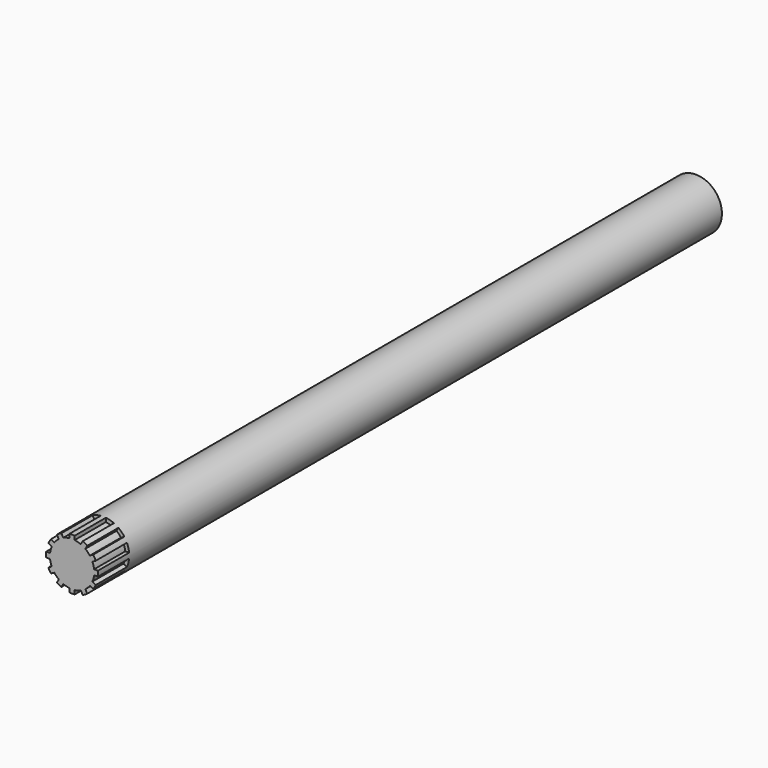
from build123d import *

# Parameters (mm, degrees)
F0_R     = 10
F1_DEPTH = 150
F3_DEPTH = 15


with BuildPart() as f1:
    # F0 (on Front) → F1 (new body, symmetric)
    with BuildSketch(Plane.XZ):
        Circle(F0_R)
    extrude(amount=F1_DEPTH, both=True)

    # F2 (on face) → F3 (cut)
    with BuildSketch(Plane.XZ.offset(150)):
        with BuildLine():
            Line((-1, 8.4674081294), (-1, 9.9498743711))
            ThreePointArc((-1, 9.9498743711), (-2.588190451, 9.6592582629), (-4.1089117817, 9.1168439698))
            Line((-4.1089117817, 9.1168439698), (-3.3676786609, 7.8329905443))
            ThreePointArc((-3.3676786609, 7.8329905443), (-2.2067568147, 8.2357285525), (-1, 8.4674081294))
        make_face()
        with BuildLine():
            Line((3.3676786609, 7.8329905443), (4.1089117817, 9.1168439698))
            ThreePointArc((4.1089117817, 9.1168439698), (2.588190451, 9.6592582629), (1, 9.9498743711))
            Line((1, 9.9498743711), (1, 8.4674081294))
            ThreePointArc((1, 8.4674081294), (2.2067568147, 8.2357285525), (3.3676786609, 7.8329905443))
        make_face()
        with BuildLine():
            Line((6.8329905443, 5.0997294685), (8.1168439698, 5.8409625893))
            ThreePointArc((8.1168439698, 5.8409625893), (7.0710678119, 7.0710678119), (5.8409625893, 8.1168439698))
            Line((5.8409625893, 8.1168439698), (5.0997294685, 6.8329905443))
            ThreePointArc((5.0997294685, 6.8329905443), (6.0289717378, 6.0289717378), (6.8329905443, 5.0997294685))
        make_face()
        with BuildLine():
            Line((8.4674081294, 1), (9.9498743711, 1))
            ThreePointArc((9.9498743711, 1), (9.6592582629, 2.588190451), (9.1168439698, 4.1089117817))
            Line((9.1168439698, 4.1089117817), (7.8329905443, 3.3676786609))
            ThreePointArc((7.8329905443, 3.3676786609), (8.2357285525, 2.2067568147), (8.4674081294, 1))
        make_face()
        with BuildLine():
            ThreePointArc((9.1168439698, -4.1089117817), (9.6592582629, -2.588190451), (9.9498743711, -1))
            Line((9.9498743711, -1), (8.4674081294, -1))
            ThreePointArc((8.4674081294, -1), (8.2357285525, -2.2067568147), (7.8329905443, -3.3676786609))
            Line((7.8329905443, -3.3676786609), (9.1168439698, -4.1089117817))
        make_face()
        with BuildLine():
            ThreePointArc((5.8409625893, -8.1168439698), (7.0710678119, -7.0710678119), (8.1168439698, -5.8409625893))
            Line((8.1168439698, -5.8409625893), (6.8329905443, -5.0997294685))
            ThreePointArc((6.8329905443, -5.0997294685), (6.0289717378, -6.0289717378), (5.0997294685, -6.8329905443))
            Line((5.0997294685, -6.8329905443), (5.8409625893, -8.1168439698))
        make_face()
        with BuildLine():
            ThreePointArc((1, -9.9498743711), (2.588190451, -9.6592582629), (4.1089117817, -9.1168439698))
            Line((4.1089117817, -9.1168439698), (3.3676786609, -7.8329905443))
            ThreePointArc((3.3676786609, -7.8329905443), (2.2067568147, -8.2357285525), (1, -8.4674081294))
            Line((1, -8.4674081294), (1, -9.9498743711))
        make_face()
        with BuildLine():
            ThreePointArc((-4.1089117817, -9.1168439698), (-2.588190451, -9.6592582629), (-1, -9.9498743711))
            Line((-1, -9.9498743711), (-1, -8.4674081294))
            ThreePointArc((-1, -8.4674081294), (-2.2067568147, -8.2357285525), (-3.3676786609, -7.8329905443))
            Line((-3.3676786609, -7.8329905443), (-4.1089117817, -9.1168439698))
        make_face()
        with BuildLine():
            ThreePointArc((-8.1168439698, -5.8409625893), (-7.0710678119, -7.0710678119), (-5.8409625893, -8.1168439698))
            Line((-5.8409625893, -8.1168439698), (-5.0997294685, -6.8329905443))
            ThreePointArc((-5.0997294685, -6.8329905443), (-6.0289717378, -6.0289717378), (-6.8329905443, -5.0997294685))
            Line((-6.8329905443, -5.0997294685), (-8.1168439698, -5.8409625893))
        make_face()
        with BuildLine():
            ThreePointArc((-9.9498743711, -1), (-9.6592582629, -2.588190451), (-9.1168439698, -4.1089117817))
            Line((-9.1168439698, -4.1089117817), (-7.8329905443, -3.3676786609))
            ThreePointArc((-7.8329905443, -3.3676786609), (-8.2357285525, -2.2067568147), (-8.4674081294, -1))
            Line((-8.4674081294, -1), (-9.9498743711, -1))
        make_face()
        with BuildLine():
            Line((-7.8329905443, 3.3676786609), (-9.1168439698, 4.1089117817))
            ThreePointArc((-9.1168439698, 4.1089117817), (-9.6592582629, 2.588190451), (-9.9498743711, 1))
            Line((-9.9498743711, 1), (-8.4674081294, 1))
            ThreePointArc((-8.4674081294, 1), (-8.2357285525, 2.2067568147), (-7.8329905443, 3.3676786609))
        make_face()
        with BuildLine():
            Line((-5.0997294685, 6.8329905443), (-5.8409625893, 8.1168439698))
            ThreePointArc((-5.8409625893, 8.1168439698), (-7.0710678119, 7.0710678119), (-8.1168439698, 5.8409625893))
            Line((-8.1168439698, 5.8409625893), (-6.8329905443, 5.0997294685))
            ThreePointArc((-6.8329905443, 5.0997294685), (-6.0289717378, 6.0289717378), (-5.0997294685, 6.8329905443))
        make_face()
    extrude(amount=-F3_DEPTH, mode=Mode.SUBTRACT)


solid = f1.part
